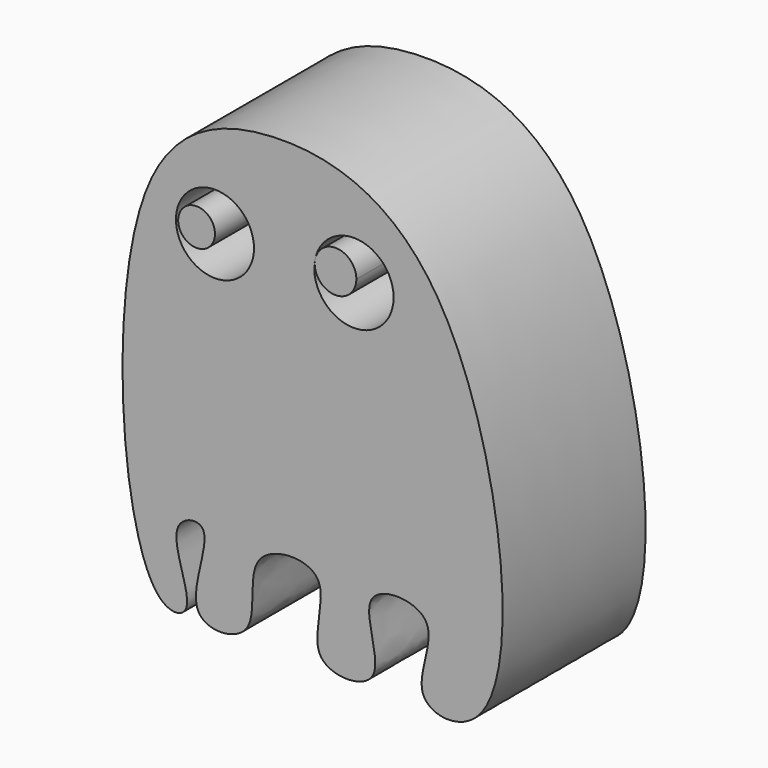
from build123d import *

# Parameters (mm, degrees)
F0_R     = 5.548415968
F1_DEPTH = 25.4
F0_R_2   = 2.613754943


with BuildPart() as f1:
    # F0 (on Front) → F1 (new body)
    with BuildSketch(Plane.XZ):
        with BuildLine():
            add(Edge.make_bspline(
                [(-30.2034132183, 0), (-35.8063800415, 5.7811072226), (-38.9746666092, 55.4443944222), (-14.162162337, 65.6130720705), (15.3223353804, 57.148406596), (23.2589074677, -4.1982711985), (3.5795914282, -1.6970070767), (11.626305169, 11.2608434615), (-4.1616535316, 11.9684203287), (4.0437909364, -2.049892118), (-11.1579395918, -2.0215838455), (-3.8882491333, 12.054787162), (-19.5365997115, 11.4184187052), (-14.703934078, -1.6822383026), (-28.6232732554, -2.3003072189), (-21.0968979759, 12.4202079955), (-30.4656717321, 10.4338816747), (-23.9243765921, -0.9957312442), (-28.6659080695, -1.5863884975), (-30.2034132183, 0)],
                knots=[0, 0, 0, 0, 0.1172498423, 0.1950572715, 0.2805123922, 0.3984417833, 0.4448100652, 0.4956943295, 0.5412126532, 0.5928616028, 0.6374794965, 0.6891744077, 0.7364085996, 0.7878608295, 0.830656816, 0.8846092471, 0.9159935105, 0.9678255749, 1, 1, 1, 1], degree=3))
        make_face()
        with Locations((-22.3621428013, 48.0640828609)):
            Circle(F0_R, mode=Mode.SUBTRACT)
        with BuildLine():
            ThreePointArc((-8.1183652053, 49.577748136), (-1.9984587219, 53.9597157683), (3.0251297512, 48.354499042))
            ThreePointArc((3.0251297512, 48.354499042), (-3.2290558207, 42.7492823158), (-8.1183652053, 49.577748136))
        make_face(mode=Mode.SUBTRACT)
    extrude(amount=F1_DEPTH)


with BuildPart() as f1b:
    # F0 (on Front) → F1, piece 2 (new body)
    with BuildSketch(Plane.XZ):
        with Locations((-24.9758977443, 48.0640828609)):
            Circle(F0_R_2)
    extrude(amount=F1_DEPTH)


with BuildPart() as f1c:
    # F0 (on Front) → F1, piece 3 (new body)
    with BuildSketch(Plane.XZ):
        with BuildLine():
            ThreePointArc((-2.2661427447, 48.9353351295), (-4.9043776342, 51.8790233857), (-8.1183652053, 49.577748136))
            ThreePointArc((-8.1183652053, 49.577748136), (-5.5506495884, 45.9916468733), (-2.2661427447, 48.9353351295))
        make_face()
    extrude(amount=F1_DEPTH)


solid = Compound([f1.part, f1b.part, f1c.part])
